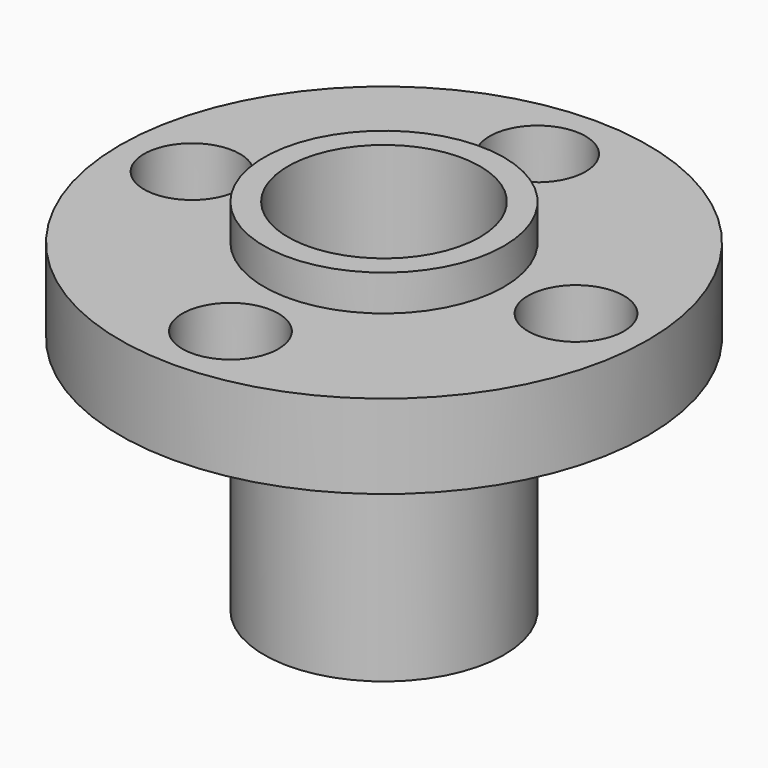
from build123d import *

# Parameters (mm, degrees)
F0_R     = 11
F0_R_2   = 2
F1_DEPTH = 3.5
F2_R     = 5
F3_DEPTH = 1.5
F4_R     = 5
F5_DEPTH = 10
F6_R     = 4
F7_DEPTH = 15


with BuildPart() as f1:
    # F0 (on Top) → F1 (new body)
    with BuildSketch(Plane.XY):
        Circle(F0_R)
        with Locations((0, -8)):
            Circle(F0_R_2, mode=Mode.SUBTRACT)
        with Locations((-8, 0)):
            Circle(F0_R_2, mode=Mode.SUBTRACT)
        with Locations((8, 0)):
            Circle(F0_R_2, mode=Mode.SUBTRACT)
        with Locations((0, 8)):
            Circle(F0_R_2, mode=Mode.SUBTRACT)
    extrude(amount=F1_DEPTH)

    # F2 (on face) → F3 (join)
    with BuildSketch(Plane.XY.offset(3.5)):
        Circle(F2_R)
    extrude(amount=F3_DEPTH)

    # F4 (on face) → F5 (join)
    with BuildSketch(Plane(origin=(0, 0, 0), x_dir=(1, 0, 0), z_dir=(0, 0, -1))):
        Circle(F4_R)
    extrude(amount=F5_DEPTH)

    # F6 (on face) → F7 (cut, through all)
    with BuildSketch(Plane.XY.offset(5)):
        Circle(F6_R)
    extrude(amount=-F7_DEPTH, mode=Mode.SUBTRACT)


solid = f1.part
